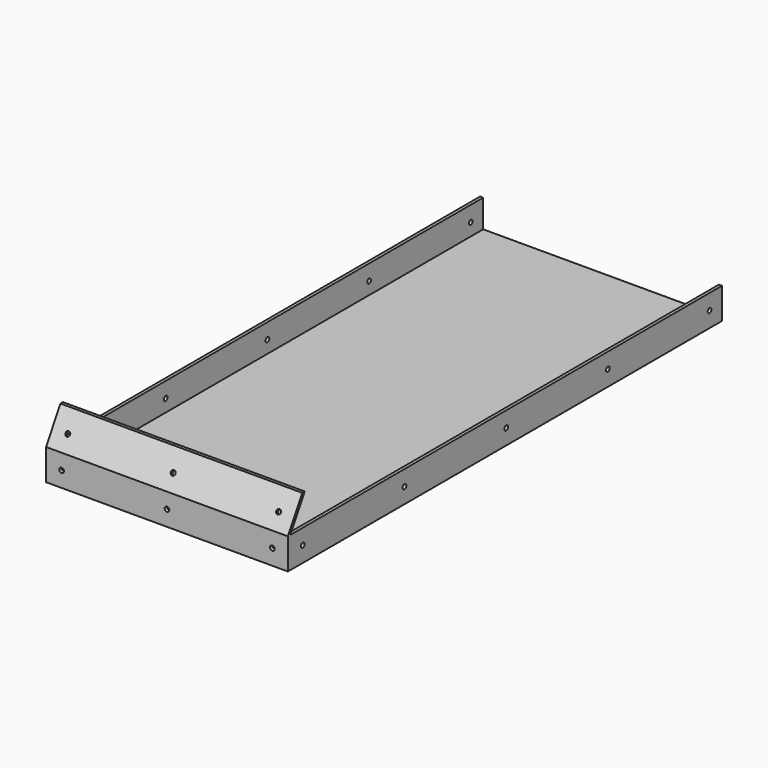
from build123d import *

# Parameters (mm, degrees)
SKETCH081_W     = 156
SKETCH081_H     = 40
PAD037_DEPTH    = 350
POCKET041_DEPTH = 156.001
SKETCH083_R     = 1.5
POCKET042_DEPTH = 5
SKETCH084_R     = 1.5
POCKET043_DEPTH = 5
SKETCH085_W     = 2
SKETCH085_H     = 18
PAD018_DEPTH    = 348
SKETCH086_R     = 1.5
POCKET044_DEPTH = 156.001


with BuildPart() as part:
    # Sketch081 (on Face1 of Binder015) → Pad037 (new body)
    with BuildSketch(Plane(origin=(0, -0.1, 0), x_dir=(-1, 0, 0), z_dir=(0, 1, 0))):
        with Locations((200, -203.2)):
            Rectangle(SKETCH081_W, SKETCH081_H)
    extrude(amount=PAD037_DEPTH)

    # Sketch082 (on Face4 of Binder015) → Pocket041 (cut, through all)
    with BuildSketch(Plane(origin=(-122, 0, 0), x_dir=(0, -1, 0), z_dir=(-1, 0, 0))):
        Polygon((-13.447005, -183.2), (-1.9, -203.2), (-1.9, -221.2), (-349.9, -221.2), (-349.9, -183.2), align=None)
        Polygon((0.1, -183.2), (-11.447005, -183.2), (0.1, -203.2), align=None)
    extrude(amount=POCKET041_DEPTH, mode=Mode.SUBTRACT)

    # Sketch083 (on Face6 of Pocket041) → Pocket042 (cut)
    with BuildSketch(Plane(origin=(0, 87.913181, -50.756699), x_dir=(1, 0, 0), z_dir=(0, -0.866025, 0.5))):
        with Locations((-200, -166.026362)):
            Circle(SKETCH083_R)
        with Locations((-268, -166.026362)):
            Circle(SKETCH083_R)
        with Locations((-132, -166.026362)):
            Circle(SKETCH083_R)
    extrude(amount=-POCKET042_DEPTH, mode=Mode.SUBTRACT)

    # Sketch084 (on Face4 of Pocket042) → Pocket043 (cut)
    with BuildSketch(Plane.XZ.offset(0.1)):
        with Locations((-200, -213.2)):
            Circle(SKETCH084_R)
        with Locations((-268, -213.2)):
            Circle(SKETCH084_R)
        with Locations((-132, -213.2)):
            Circle(SKETCH084_R)
    extrude(amount=-POCKET043_DEPTH, mode=Mode.SUBTRACT)

    # Sketch085 (on Face8 of Pocket043) → Pad018 (join)
    with BuildSketch(Plane(origin=(0, 1.9, 0), x_dir=(-1, 0, 0), z_dir=(0, 1, 0))):
        with Locations((277, -212.2)):
            Rectangle(SKETCH085_W, SKETCH085_H)
        with Locations((123, -212.2)):
            Rectangle(SKETCH085_W, SKETCH085_H)
    extrude(amount=PAD018_DEPTH)

    # Sketch086 (on Face18 of Pad018) → Pocket044 (cut, through all)
    with BuildSketch(Plane.YZ.offset(-122)):
        with Locations((257.9, -213.2)):
            Circle(SKETCH086_R)
        with Locations((339.9, -213.2)):
            Circle(SKETCH086_R)
        with Locations((175.9, -213.2)):
            Circle(SKETCH086_R)
        with Locations((93.9, -213.2)):
            Circle(SKETCH086_R)
        with Locations((11.9, -213.2)):
            Circle(SKETCH086_R)
    extrude(amount=-POCKET044_DEPTH, mode=Mode.SUBTRACT)


solid = part.part
